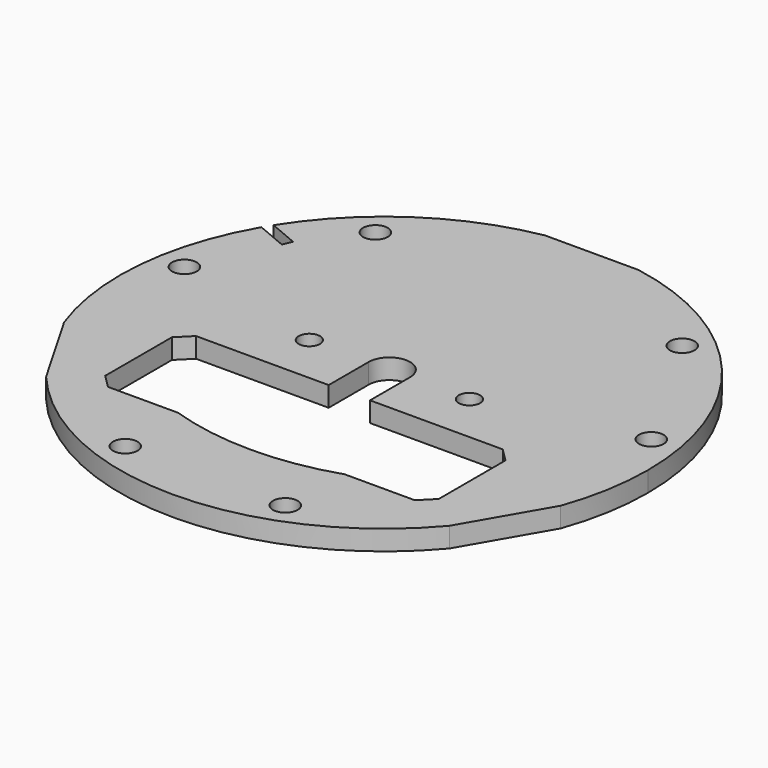
from build123d import *

# Parameters (mm, degrees)
F0_R     = 1.85
F0_R_2   = 1.6
F1_DEPTH = 3
F2_SIZE  = 2


with BuildPart() as f1:
    # F0 (on Top) → F1 (new body)
    with BuildSketch(Plane.XY):
        with BuildLine():
            Line((-37.2395, -14.411558), (-30.2395, -26.535914))
            ThreePointArc((-30.2395, -26.535914), (-0.01, -40.571524), (30.2195, -26.535914))
            Line((30.2195, -26.535914), (37.2195, -14.411558))
            ThreePointArc((37.2195, -14.411558), (38.971621, -7.807256), (39.561524, -1))
            ThreePointArc((39.561524, -1), (30.345446, 24.386068), (6.99, 37.947471))
            Line((6.99, 37.947471), (-7.01, 37.947471))
            ThreePointArc((-7.01, 37.947471), (-22.113251, 31.823038), (-33.467236, 20.130994))
            Line((-33.467236, 20.130994), (-29.062198, 18.272032))
            Line((-29.062198, 18.272032), (-29.645405, 16.890051))
            Line((-29.645405, 16.890051), (-34.252006, 18.834075))
            ThreePointArc((-34.252006, 18.834075), (-39.422715, 2.541675), (-37.2395, -14.411558))
        make_face()
        with Locations((-12.01, -34.486316)):
            Circle(F0_R, mode=Mode.SUBTRACT)
        with Locations((11.99, -34.486316)):
            Circle(F0_R, mode=Mode.SUBTRACT)
        with BuildLine():
            Line((3.1, -7.5), (25, -7.5))
            Line((25, -7.5), (25, -24))
            Line((25, -24), (12.5, -24))
            ThreePointArc((12.5, -24), (0, -26), (-12.5, -24))
            Line((-12.5, -24), (-25, -24))
            Line((-25, -24), (-25, -7.5))
            Line((-25, -7.5), (-3.1, -7.5))
            Line((-3.1, -7.5), (-3.1, 0))
            ThreePointArc((-3.1, 0), (0, 3.1), (3.1, 0))
            Line((3.1, 0), (3.1, -7.5))
        make_face(mode=Mode.SUBTRACT)
        with Locations((-35.01, 5.350853)):
            Circle(F0_R, mode=Mode.SUBTRACT)
        with Locations((-12, 0)):
            Circle(F0_R_2, mode=Mode.SUBTRACT)
        with Locations((-23.01, 26.135463)):
            Circle(F0_R, mode=Mode.SUBTRACT)
        with Locations((12, 0)):
            Circle(F0_R_2, mode=Mode.SUBTRACT)
        with Locations((34.99, 5.350853)):
            Circle(F0_R, mode=Mode.SUBTRACT)
        with Locations((22.99, 26.135463)):
            Circle(F0_R, mode=Mode.SUBTRACT)
    extrude(amount=F1_DEPTH)

    # F2
    f2_edges = [f1.edges().sort_by_distance(p)[0] for p in [
        (-25, -24, 1.5),
        (25, -24, 1.5),
        (-25, -7.5, 1.5),
        (25, -7.5, 1.5),
    ]]
    chamfer(f2_edges, length=F2_SIZE)


solid = f1.part
